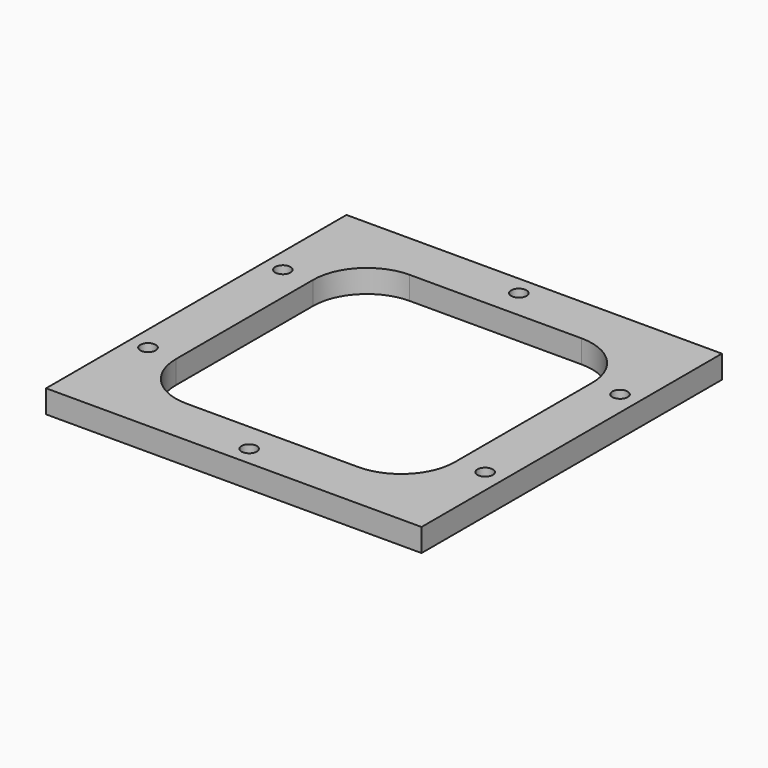
from build123d import *

# Parameters (mm, degrees)
F0_R     = 1
F0_W     = 36.4
F0_H     = 36.4
F1_DEPTH = 3
F2_R     = 7


with BuildPart() as f1:
    # F0 (on Top) → F1 (new body)
    with BuildSketch(Plane.XY):
        Polygon((-24.5, 24.5), (-24.5, -24.5), (24.5, -24.5), (24.5, 24.5), (-22, 24.5), align=None)
        with Locations((0, -22)):
            Circle(F0_R, mode=Mode.SUBTRACT)
        with Locations((-22, -11)):
            Circle(F0_R, mode=Mode.SUBTRACT)
        Polygon((19.5, -19.5), (-18.2, -19.5), (-19.5, -19.5), (-19.5, 19.5), (19.5, 19.5), align=None, mode=Mode.SUBTRACT)
        with Locations((22, -11)):
            Circle(F0_R, mode=Mode.SUBTRACT)
        with Locations((-22, 11)):
            Circle(F0_R, mode=Mode.SUBTRACT)
        with Locations((0, 22)):
            Circle(F0_R, mode=Mode.SUBTRACT)
        with Locations((22, 11)):
            Circle(F0_R, mode=Mode.SUBTRACT)
        Polygon((-19.5, -19.5), (-18.2, -19.5), (19.5, -19.5), (19.5, 19.5), (-19.5, 19.5), align=None)
        Rectangle(F0_W, F0_H, mode=Mode.SUBTRACT)
    extrude(amount=F1_DEPTH)

    # F2
    f2_edges = [f1.edges().sort_by_distance(p)[0] for p in [
        (-18.2, 18.2, 1.5),
        (-18.2, -18.2, 1.5),
        (18.2, -18.2, 1.5),
        (18.2, 18.2, 1.5),
    ]]
    fillet(f2_edges, radius=F2_R)


solid = f1.part
